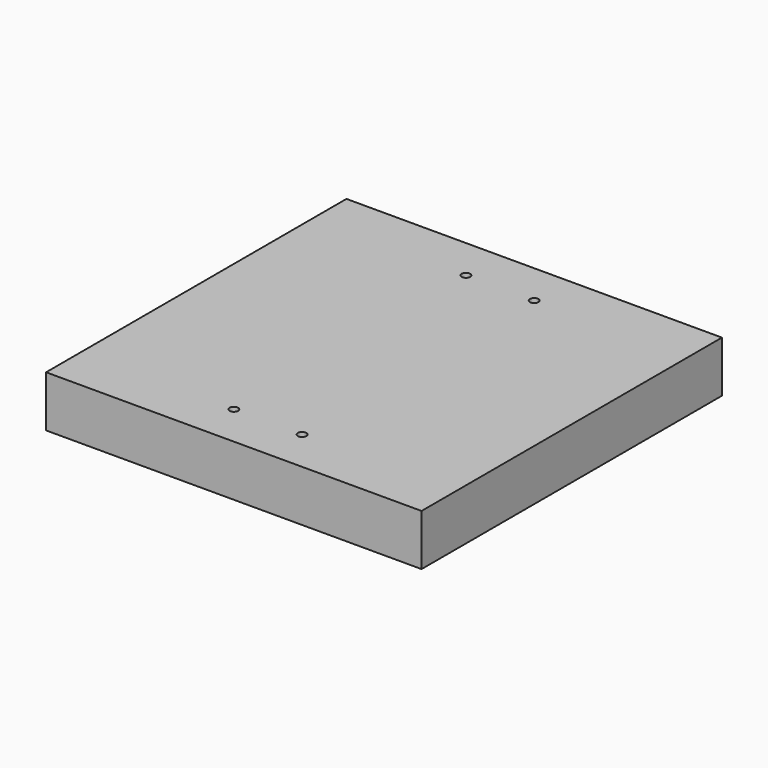
from build123d import *

# Parameters (mm, degrees)
F0_W     = 139.7
F0_H     = 139.7
F1_DEPTH = 19.05
F3_D     = 3.175


with BuildPart() as f1:
    # F0 (on Top) → F1 (new body)
    with BuildSketch(Plane.XY):
        with Locations((-37.994092, 22.811002)):
            Rectangle(F0_W, F0_H)
    extrude(amount=F1_DEPTH)

    # F3 (through all)
    with Locations(Plane.XY.offset(19.05)):
        with Locations((-50.694092, -31.163998), (-25.294092, -31.163998), (-50.694092, 76.786002), (-25.294092, 76.786002)):
            Hole(F3_D / 2)


solid = f1.part
